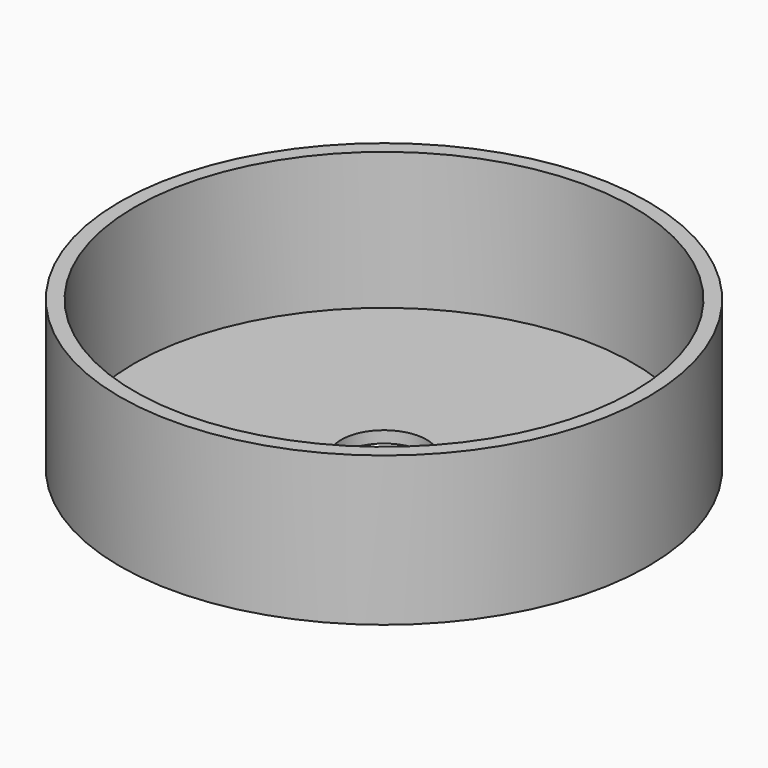
from build123d import *

# Parameters (mm, degrees)
F0_R     = 45
F1_DEPTH = 25.4
F2_R     = 42.5
F3_DEPTH = 23.4
F4_R     = 7.25
F5_DEPTH = 25


with BuildPart() as f1:
    # F0 (on Top) → F1 (new body)
    with BuildSketch(Plane.XY):
        Circle(F0_R)
    extrude(amount=F1_DEPTH)

    # F2 (on face) → F3 (cut, through all)
    with BuildSketch(Plane.XY.offset(25.4)):
        Circle(F2_R)
    extrude(amount=-F3_DEPTH, mode=Mode.SUBTRACT)

    # F4 (on face) → F5 (cut)
    with BuildSketch(Plane.XY.offset(2)):
        Circle(F4_R)
    extrude(amount=-F5_DEPTH, mode=Mode.SUBTRACT)


solid = f1.part
